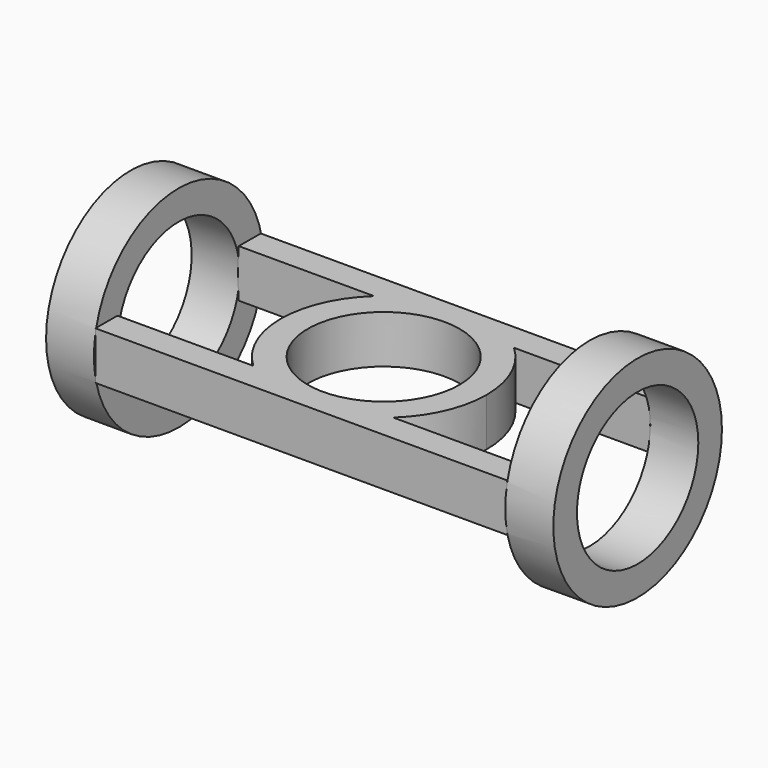
from build123d import *

# Parameters (mm, degrees)
F0_R     = 11.05
F1_DEPTH = 7
F2_R     = 15.35
F2_R_2   = 11.05
F3_DEPTH = 7
F4_R     = 15.35
F4_R_2   = 11.05
F5_DEPTH = 7


with BuildPart() as f1:
    # F0 (on Top) → F1 (new body)
    with BuildSketch(Plane.XY):
        with BuildLine():
            ThreePointArc((10.198039, -11), (13.747192, -6.001225), (15, 0))
            ThreePointArc((15, 0), (13.747192, 6.001225), (10.198039, 11))
            ThreePointArc((10.198039, 11), (5.477226, 13.96424), (0, 15))
            ThreePointArc((0, 15), (-5.477226, 13.96424), (-10.198039, 11))
            ThreePointArc((-10.198039, 11), (-15, 0), (-10.198039, -11))
            ThreePointArc((-10.198039, -11), (-5.477226, -13.96424), (0, -15))
            ThreePointArc((0, -15), (5.477226, -13.96424), (10.198039, -11))
        make_face()
        Circle(F0_R, mode=Mode.SUBTRACT)
        with BuildLine():
            ThreePointArc((0, 15), (5.477226, 13.96424), (10.198039, 11))
            Line((10.198039, 11), (30, 11))
            Line((30, 11), (30, 15))
            Line((30, 15), (0, 15))
        make_face()
        with BuildLine():
            Line((30, -11), (10.198039, -11))
            ThreePointArc((10.198039, -11), (5.477226, -13.96424), (0, -15))
            Line((0, -15), (30, -15))
            Line((30, -15), (30, -11))
        make_face()
        with BuildLine():
            ThreePointArc((-10.198039, 11), (-5.477226, 13.96424), (0, 15))
            Line((0, 15), (-30, 15))
            Line((-30, 15), (-29.986673, 11))
            Line((-29.986673, 11), (-10.198039, 11))
        make_face()
        with BuildLine():
            Line((-30, -15), (0, -15))
            ThreePointArc((0, -15), (-5.477226, -13.96424), (-10.198039, -11))
            Line((-10.198039, -11), (-29.98667, -11))
            Line((-29.98667, -11), (-30, -15))
        make_face()
    extrude(amount=F1_DEPTH)

    # F2 (on face) → F3 (join)
    with BuildSketch(Plane(origin=(-29.949681, 0.099805, 0), x_dir=(-0.003332, -0.999994, 0), z_dir=(-0.999994, 0.003332, 0))):
        with Locations((0, 3.5)):
            Circle(F2_R)
        with Locations((0, 3.5)):
            Circle(F2_R_2, mode=Mode.SUBTRACT)
    extrude(amount=F3_DEPTH)

    # F4 (on face) → F5 (join)
    with BuildSketch(Plane.YZ.offset(30)):
        with Locations((0, 3.5)):
            Circle(F4_R)
        with Locations((0, 3.5)):
            Circle(F4_R_2, mode=Mode.SUBTRACT)
    extrude(amount=F5_DEPTH)


solid = f1.part
